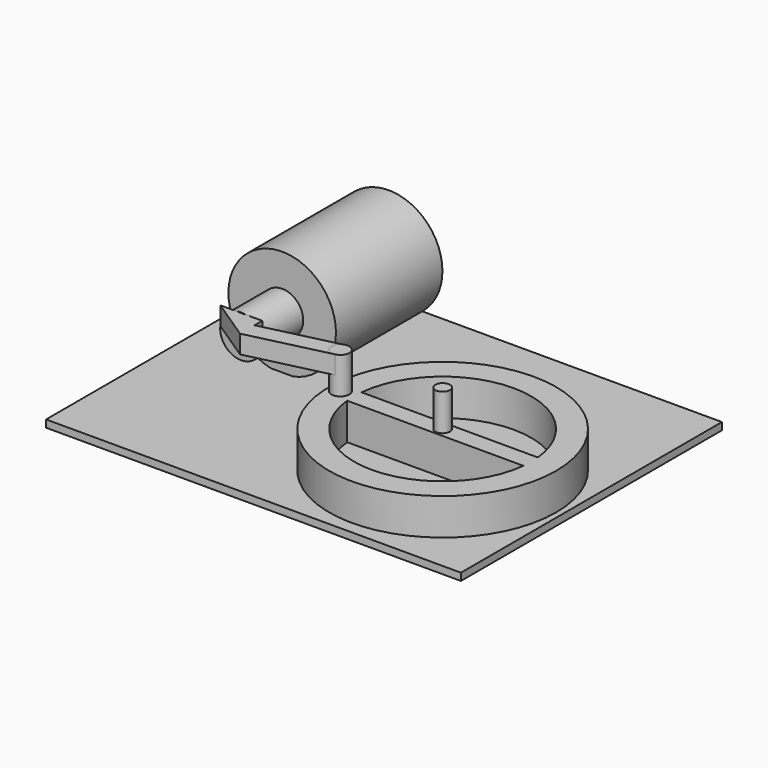
from build123d import *

# Parameters (mm, degrees)
F0_R      = 39.4279927029
F0_R_2    = 3.110199546
F0_R_3    = 2.5417923474
F1_DEPTH  = 12.7
F2_DEPTH  = 25.4
F3_W      = 144.0756171942
F3_H      = 113.317899406
F3_R      = 2.54
F4_DEPTH  = 2.54
F5_DEPTH  = 25.4
F7_START  = -17.78
F6_R      = 18.6725970097
F6_R_2    = 7.3168423601
F7_DEPTH  = 46.228
F8_DEPTH  = 25.4
F10_DEPTH = 6.35


with BuildPart() as f1:
    # F0 (on Top) → F1 (new body)
    with BuildSketch(Plane.XY):
        Circle(F0_R)
        with BuildLine():
            Line((-30.5999443991, -3.2187987467), (30.5999443991, -3.2187987467))
            ThreePointArc((30.5999443991, -3.2187987467), (0, -30.7687708984), (-30.5999443991, -3.2187987467))
        make_face(mode=Mode.SUBTRACT)
        with Locations((-35.5075187981, 0)):
            Circle(F0_R_2, mode=Mode.SUBTRACT)
        with BuildLine():
            ThreePointArc((-30.6159461769, 3.0628585164), (0, 30.7687708984), (30.6159461769, 3.0628585164))
            Line((30.6159461769, 3.0628585164), (-30.6159461769, 3.0628585164))
        make_face(mode=Mode.SUBTRACT)
        Circle(F0_R_3, mode=Mode.SUBTRACT)
    extrude(amount=F1_DEPTH)

    # F0 (on Top) → F2 (join)
    with BuildSketch(Plane.XY):
        with Locations((-35.5075187981, 0)):
            Circle(F0_R_2)
    extrude(amount=F2_DEPTH)


with BuildPart() as f4:
    # F3 (on Top) → F4 (new body)
    with BuildSketch(Plane.XY):
        with Locations((-30.6740552187, 12.8842480481)):
            Rectangle(F3_W, F3_H)
        Circle(F3_R, mode=Mode.SUBTRACT)
        Circle(F3_R)
    extrude(amount=-F4_DEPTH)

    # F3 (on Top) → F5 (join)
    with BuildSketch(Plane.XY):
        Circle(F3_R)
    extrude(amount=F5_DEPTH)

    # F6 (on Front) → F7 (join)
    with BuildSketch(Plane.XZ.offset(F7_START)):
        with Locations((-69.9562728405, 18.2656385005)):
            Circle(F6_R)
        with Locations((-69.9562728405, 18.2656385005)):
            Circle(F6_R_2, mode=Mode.SUBTRACT)
    extrude(amount=-F7_DEPTH)


with BuildPart() as f8:
    # F6 (on Front) → F8 (new body)
    with BuildSketch(Plane.XZ):
        with Locations((-69.9562728405, 18.2656385005)):
            Circle(F6_R_2)
    extrude(amount=-F8_DEPTH)

    # F9 (on face) → F10 (join)
    with BuildSketch(Plane.XY.offset(25.4)):
        with BuildLine():
            ThreePointArc((-34.8718399034, -3.0458733711), (-38.4510115189, -1.0086044085), (-36.8734681671, 2.7956420678))
            Line((-36.8734681671, 2.7956420678), (-62.6186206937, -3.3591403626))
            Line((-62.6186206937, -3.3591403626), (-62.6186206937, -9.6791764262))
            Line((-62.6186206937, -9.6791764262), (-34.8718399034, -3.0458733711))
        make_face()
        Polygon((-62.6186206937, -9.6791764262), (-62.6186206937, -3.3591403626), (-62.6186206937, 0), (-77.2229358554, 0), align=None)
    extrude(amount=-F10_DEPTH)


solid = Compound([f1.part, f4.part, f8.part])
